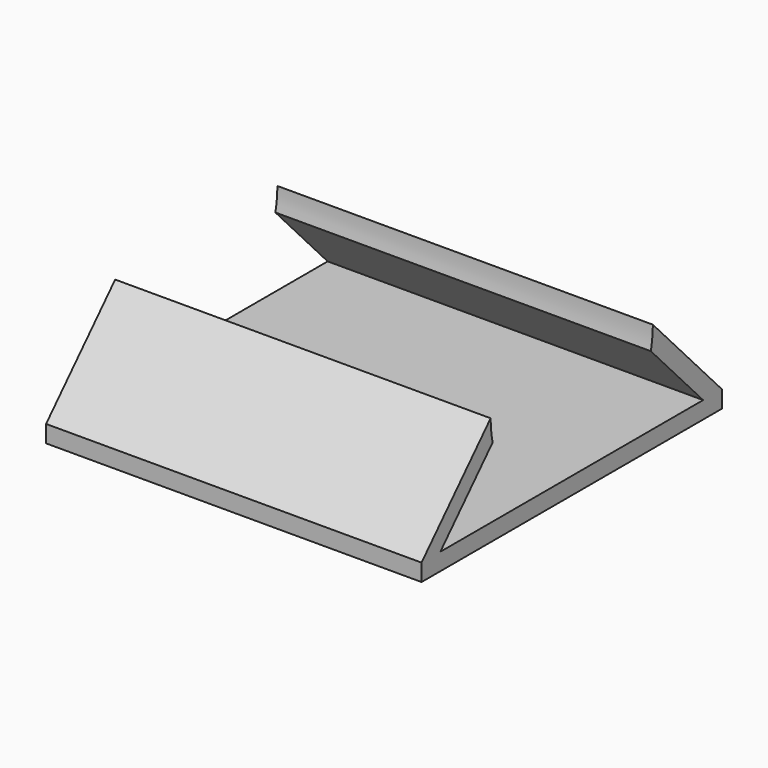
from build123d import *

# Parameters (mm, degrees)
F0_W     = 50
F0_H     = 50
F1_DEPTH = 2.28
F3_DEPTH = 50


with BuildPart() as f1:
    # F0 (on Top) → F1 (new body)
    with BuildSketch(Plane.XY):
        Rectangle(F0_W, F0_H)
    extrude(amount=F1_DEPTH)

    # F2 (on face) → F3 (join)
    with BuildSketch(Plane.YZ.offset(25)):
        with BuildLine():
            Line((-13.5, 14.53), (-25, 2.28))
            Line((-25, 2.28), (-21.872741, 2.28))
            Line((-21.872741, 2.28), (-13.16763, 11.552835))
            ThreePointArc((-13.16763, 11.552835), (-13.41665, 13.03217), (-13.5, 14.53))
        make_face()
        with BuildLine():
            Line((25, 2.28), (13.5, 14.53))
            ThreePointArc((13.5, 14.53), (13.41665, 13.03217), (13.16763, 11.552835))
            Line((13.16763, 11.552835), (21.872741, 2.28))
            Line((21.872741, 2.28), (25, 2.28))
        make_face()
    extrude(amount=-F3_DEPTH)


solid = f1.part
